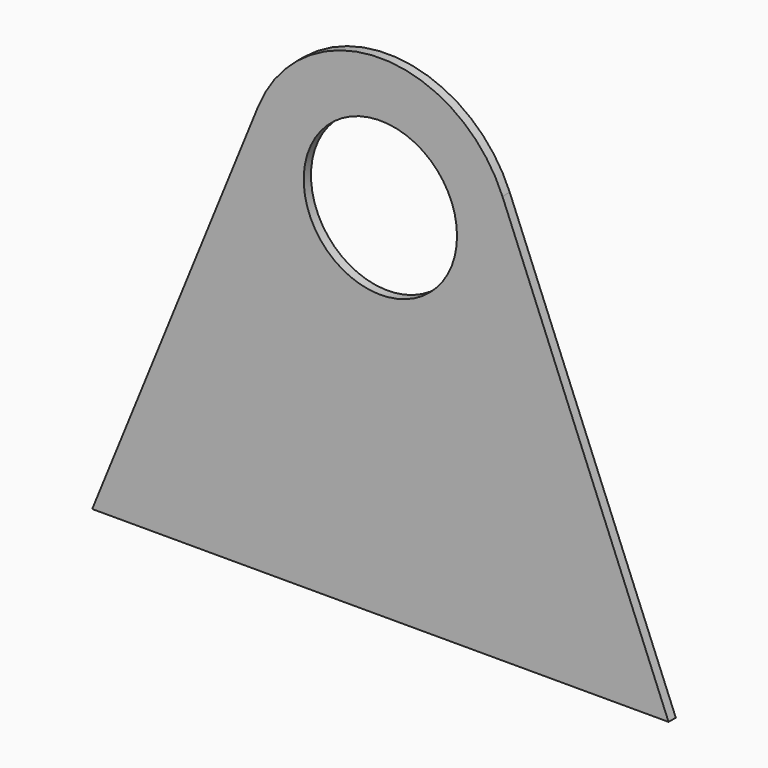
from build123d import *

# Parameters (mm, degrees)
F0_R     = 17.16592
F1_DEPTH = 2.032


with BuildPart() as f1:
    # F0 (on Front) → F1 (new body)
    with BuildSketch(Plane.XZ):
        with BuildLine():
            ThreePointArc((-27.338657, 11.112255), (-5.661276, -28.962637), (29.510751, 0))
            ThreePointArc((29.510751, 0), (28.962637, 5.661276), (27.338657, 11.112255))
            ThreePointArc((27.338657, 11.112255), (0, 29.510751), (-27.338657, 11.112255))
        make_face()
        Circle(F0_R, mode=Mode.SUBTRACT)
        with BuildLine():
            ThreePointArc((27.338657, 11.112255), (28.962637, 5.661276), (29.510751, 0))
            ThreePointArc((29.510751, 0), (-5.661276, -28.962637), (-27.338657, 11.112255))
            Line((-27.338657, 11.112255), (-64.530984, -80.389269))
            Line((-64.530984, -80.389269), (64.530984, -80.389269))
            Line((64.530984, -80.389269), (27.338657, 11.112255))
        make_face()
    extrude(amount=F1_DEPTH)


solid = f1.part
